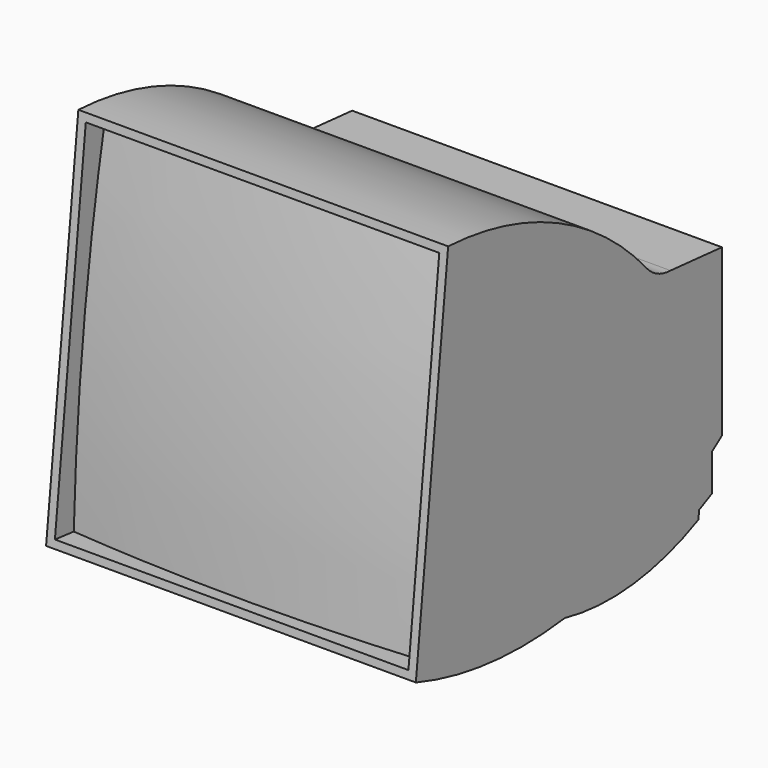
from build123d import *

# Parameters (mm, degrees)
F1_DEPTH      = 63.5
F1_DEPTH_BACK = 63.5
F2_W          = 121.412
F2_H          = 121.4773469555
F3_DEPTH      = 10.16
F6_ANGLE_BACK = 4.9623752699
F6_ANGLE      = 9.6002572001


with BuildPart() as f1:
    # F0 (on Right) → F1 (new body, two sides)
    with BuildSketch(Plane.YZ) as f1_sk:
        with BuildLine():
            Line((-44.2258762484, -5.1661990916), (-45.3097894054, -15.0418539721))
            ThreePointArc((-45.3097894054, -15.0418539721), (-13.7030518217, -21.9890417418), (18.6550981372, -21.5424884693))
            ThreePointArc((18.6550981372, -21.5424884693), (47.8654596913, -23.2074448835), (75.9852901101, -15.1270711794))
            Line((75.9852901101, -15.1270711794), (76.2974227243, -12.2831957683))
            Line((76.2974227243, -12.2831957683), (81.7933529615, -9.5837377012))
            Line((81.7933529615, -9.5837377012), (81.7933529615, 3.07087185))
            ThreePointArc((81.7933529615, 3.07087185), (83.9552126708, 4.627317683), (86.0872641206, 6.2243516994))
            Line((86.0872641206, 6.2243516994), (86.0872641206, 63.1598830223))
            Line((86.0872641206, 63.1598830223), (64.0061274171, 65.0746673346))
            ThreePointArc((64.0061274171, 65.0746673346), (58.5946758607, 66.3143740435), (54.1078224778, 69.5837512612))
            ThreePointArc((54.1078224778, 69.5837512612), (15.5800187481, 99.1361263011), (-31.4539738675, 111.2000423056))
            Line((-31.4539738675, 111.2000423056), (-43.6588544929, 0))
            Line((-43.6588544929, 0), (-38.2017120719, 0))
            Line((-38.2017120719, 0), (-38.7687338274, -5.1661990916))
            Line((-38.7687338274, -5.1661990916), (-44.2258762484, -5.1661990916))
        make_face()
        Polygon((-43.6588544929, 0), (-44.2258762484, -5.1661990916), (-38.7687338274, -5.1661990916), (-38.2017120719, 0), align=None)
    extrude(amount=F1_DEPTH)
    extrude(f1_sk.sketch, amount=-F1_DEPTH_BACK)

    # F2 (on face) → F3 (cut)
    with BuildSketch(Plane(origin=(0, -43.1391827765, 4.7347875518), x_dir=(1, 0, 0), z_dir=(0, -0.9940306794, 0.1091009097))):
        with Locations((0, 43.5864519963)):
            Rectangle(F2_W, F2_H)
    extrude(amount=-F3_DEPTH, mode=Mode.SUBTRACT)

    # F5 (on offset) → F6 (revolve)
    with BuildSketch(Plane(origin=(0, 4.4781674488, 40.8010881091), x_dir=(1, 0, 0), z_dir=(0, -0.1091009097, -0.9940306794)), mode=Mode.PRIVATE) as f6_sk:
        with BuildLine():
            ThreePointArc((63.1147550677, 37.2976302589), (0, 40.7020876312), (-63.1147550677, 37.2976302589))
            Line((-63.1147550677, 37.2976302589), (63.1147550677, 37.2976302589))
        make_face()
    revolve(f6_sk.sketch.rotate(Axis((60.319211334, 698.4784697554, -35.36966388), (1, 0, 0)), -F6_ANGLE_BACK), axis=Axis((60.319211334, 698.4784697554, -35.36966388), (1, 0, 0)), revolution_arc=F6_ANGLE)


solid = f1.part
